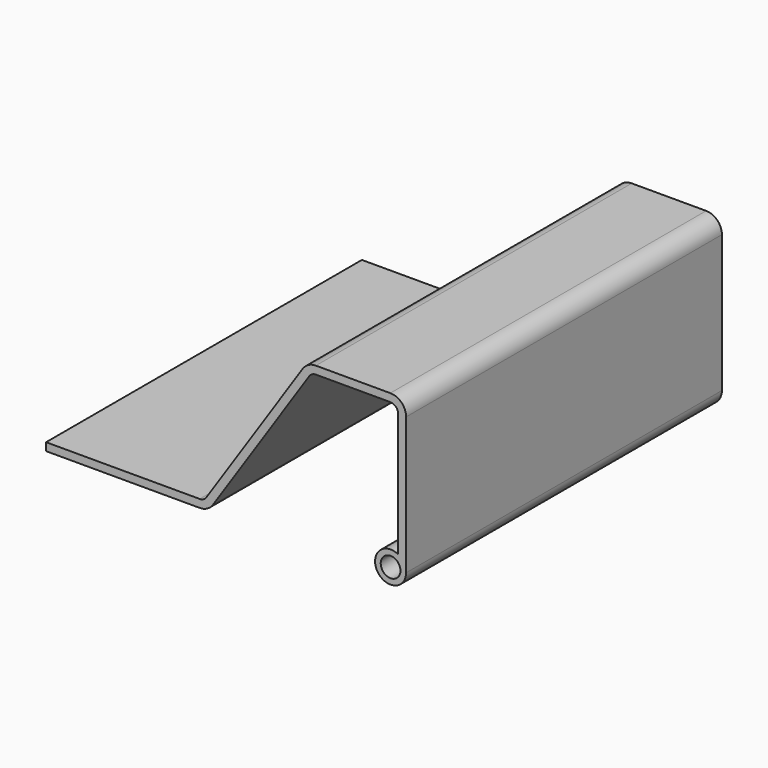
from build123d import *

# Parameters (mm, degrees)
F0_R     = 3.175
F1_DEPTH = 127
F2_R     = 5.08
F3_R     = 2.54


with BuildPart() as f1:
    # F0 (on Front) → F1 (new body)
    with BuildSketch(Plane.XZ):
        with BuildLine():
            ThreePointArc((2.4511, 4.34778), (4.309569, 2.517677), (4.9911, 0))
            Line((4.9911, 0), (4.9911, 49.2252))
            Line((4.9911, 49.2252), (-26.7589, 49.2252))
            Line((-26.7589, 49.2252), (-60.0329, -0.6858))
            Line((-60.0329, -0.6858), (-110.8329, -0.6858))
            Line((-110.8329, -0.6858), (-110.8329, -3.2258))
            Line((-110.8329, -3.2258), (-58.673533, -3.2258))
            Line((-58.673533, -3.2258), (-25.399533, 46.6852))
            Line((-25.399533, 46.6852), (2.4511, 46.6852))
            Line((2.4511, 46.6852), (2.4511, 4.34778))
        make_face()
        with BuildLine():
            ThreePointArc((2.4511, 4.34778), (-4.309569, -2.517677), (4.9911, 0))
            ThreePointArc((4.9911, 0), (4.309569, 2.517677), (2.4511, 4.34778))
        make_face()
        Circle(F0_R, mode=Mode.SUBTRACT)
    extrude(amount=-F1_DEPTH)

    # F2
    f2_edges = [f1.edges().sort_by_distance(p)[0] for p in [
        (-26.7589, 63.5, 49.2252),
        (4.9911, 63.5, 49.2252),
        (-58.673533, 63.5, -3.2258),
    ]]
    fillet(f2_edges, radius=F2_R)

    # F3
    f3_edges = [f1.edges().sort_by_distance(p)[0] for p in [
        (2.4511, 63.5, 46.6852),
        (-25.399533, 63.5, 46.6852),
        (-60.0329, 63.5, -0.6858),
    ]]
    fillet(f3_edges, radius=F3_R)


solid = f1.part
